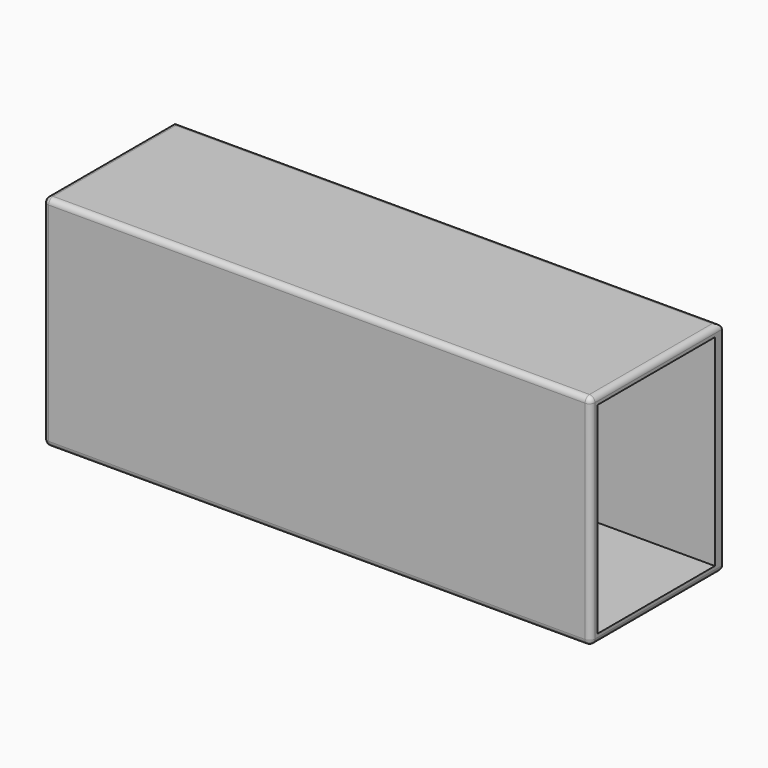
from build123d import *

# Parameters (mm, degrees)
F0_W     = 500
F0_H     = 200
F0_R     = 14
F0_R_2   = 17
F0_R_3   = 26.5
F1_DEPTH = 75
F2_T     = -8
F3_R     = 5


with BuildPart() as f1:
    # F0 (on Front) → F1 (new body, symmetric)
    with BuildSketch(Plane.XZ):
        Rectangle(F0_W, F0_H)
        with Locations((-210, 0)):
            Circle(F0_R, mode=Mode.SUBTRACT)
        with Locations((-140, 0)):
            Circle(F0_R, mode=Mode.SUBTRACT)
        with Locations((-70, 0)):
            Circle(F0_R, mode=Mode.SUBTRACT)
        Circle(F0_R_2, mode=Mode.SUBTRACT)
        with Locations((80, 0)):
            Circle(F0_R_3, mode=Mode.SUBTRACT)
        with Locations((-210, 0)):
            Circle(F0_R)
        with Locations((-140, 0)):
            Circle(F0_R)
        with Locations((-70, 0)):
            Circle(F0_R)
        Circle(F0_R_2)
        with Locations((80, 0)):
            Circle(F0_R_3)
    extrude(amount=F1_DEPTH, both=True)

    # F2
    f2_openings = [f1.faces().sort_by_distance(p)[0] for p in [
        (250, 0, 0),
        (-250, 0, 0),
    ]]
    offset(amount=F2_T, openings=f2_openings)

    # F3
    f3_edges = [f1.edges().sort_by_distance(p)[0] for p in [
        (0, 75, 100),
        (0, -75, -100),
        (250, -75, 0),
        (0, -75, 100),
        (-250, -75, 0),
        (250, 0, 100),
        (-250, 0, 100),
        (0, 75, -100),
        (250, 0, -100),
        (-250, 0, -100),
    ]]
    fillet(f3_edges, radius=F3_R)


solid = f1.part
